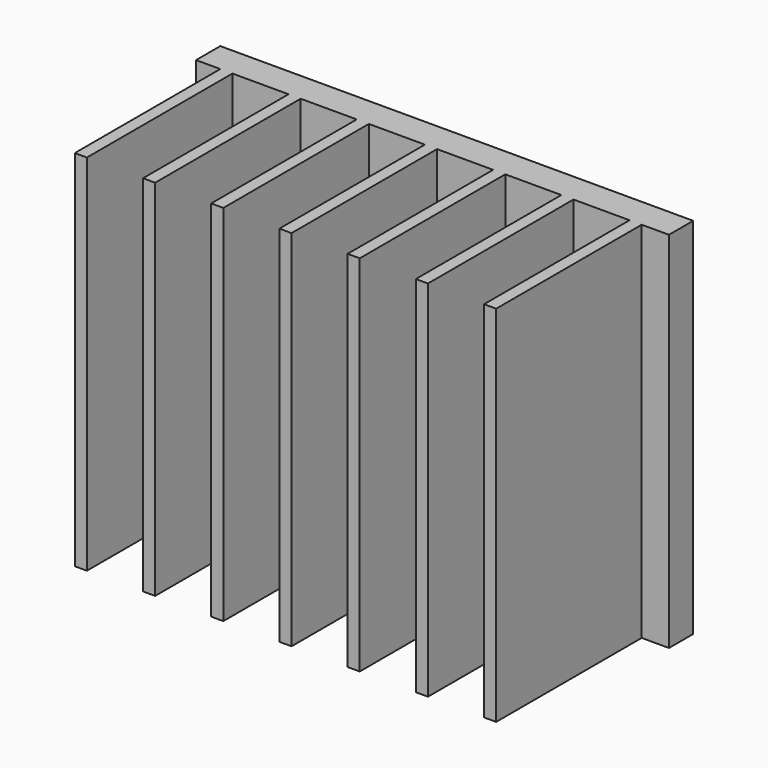
from build123d import *

# Parameters (mm, degrees)
SKETCH001_W   = 78
SKETCH001_H   = 5
PAD001_DEPTH  = 60
SKETCH_W      = 2
SKETCH_H      = 30
PAD_DEPTH     = 60
ARRAY_X_COUNT = 7
ARRAY_X_PITCH = 11.25


with BuildPart() as pad001:
    # Sketch001 → Pad001 (new body)
    with BuildSketch(Plane.XY):
        with Locations((0, -2.5)):
            Rectangle(SKETCH001_W, SKETCH001_H)
    extrude(amount=PAD001_DEPTH)


with BuildPart() as fusion:
    # Sketch → Pad (new body)
    with BuildSketch(Plane.XY):
        with Locations((-34, -20)):
            Rectangle(SKETCH_W, SKETCH_H)
    extrude(amount=PAD_DEPTH)

    # Array X: Fusion ×7


with BuildPart() as fusion_1:
    add(fusion.part)
    with Locations(*[(i * ARRAY_X_PITCH, 0, 0) for i in range(1, ARRAY_X_COUNT)]):
        add(fusion.part)

    # Fusion: union Pad001
    add(pad001.part)


solid = fusion_1.part
